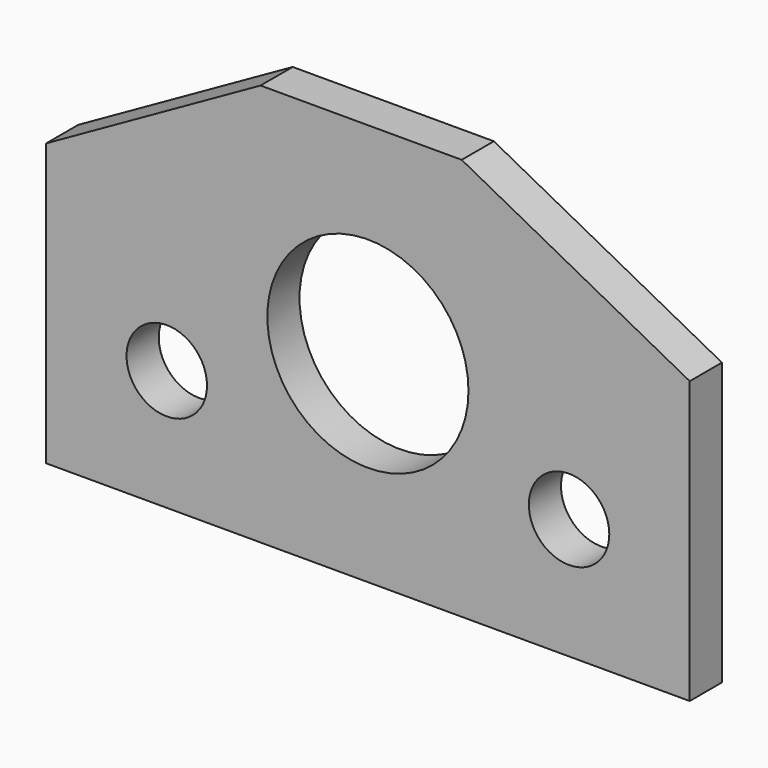
from build123d import *

# Parameters (mm, degrees)
F0_R     = 6.35
F0_R_2   = 15.875
F1_DEPTH = 6.35


with BuildPart() as f1:
    # F0 (on Front) → F1 (new body)
    with BuildSketch(Plane.XZ):
        Polygon((50.8, -31.75), (50.8, 12.7), (14.804928, 31.75), (-16.945072, 31.75), (-50.8, 12.7), (-50.8, -31.75), align=None)
        with Locations((-31.75, -12.7)):
            Circle(F0_R, mode=Mode.SUBTRACT)
        with Locations((31.75, -12.7)):
            Circle(F0_R, mode=Mode.SUBTRACT)
        Circle(F0_R_2, mode=Mode.SUBTRACT)
    extrude(amount=F1_DEPTH)


solid = f1.part
